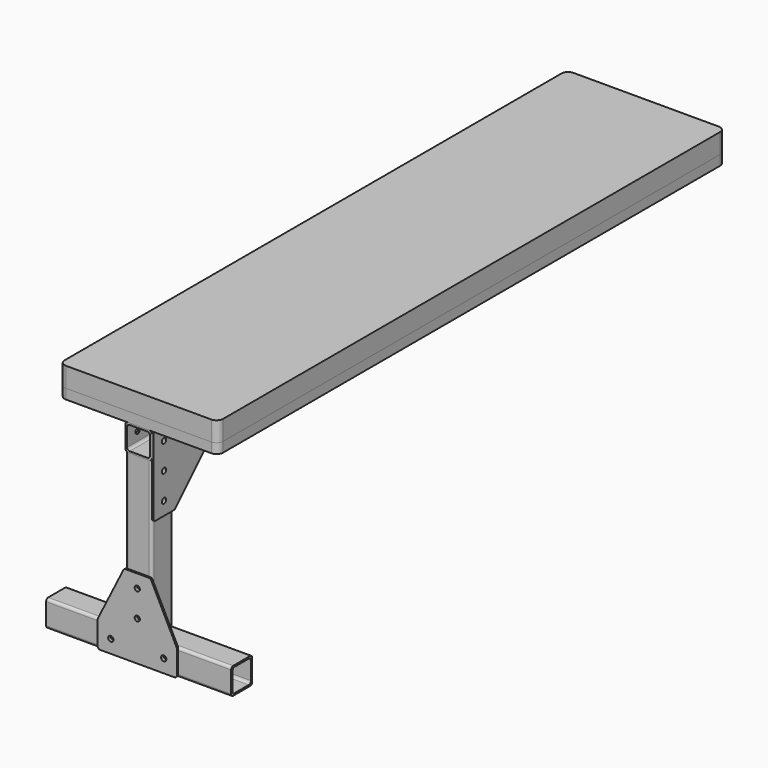
from build123d import *

# Parameters (mm, degrees)
F1_W      = 50.8
F1_H      = 50.8
F1_W_2    = 44.45
F1_H_2    = 44.45
F2_DEPTH  = 609.6
F3_W      = 50.8
F3_H      = 50.8
F3_W_2    = 44.45
F3_H_2    = 44.45
F4_DEPTH  = 298.45
F5_W      = 50.8
F5_H      = 50.8
F5_W_2    = 44.45
F5_H_2    = 44.45
F6_DEPTH  = 177.8
F8_DEPTH  = 3.175
F9_W      = 304.8
F9_H      = 1219.2
F10_DEPTH = 19.05
F11_DEPTH = 38.1
F13_DEPTH = 3.175
F15_D     = 10.0838
F15_2_D   = 10.0838
F15_3_D   = 10.0838
F17_D     = 10.0838
F17_2_D   = 10.0838
F17_3_D   = 10.0838
F19_D     = 10.0838
F20_D     = 11.509375
F21_R     = 5.08
F21_2_R   = 5.08
F21_3_R   = 5.08
F22_R     = 12.7
F22_2_R   = 12.7
F23_R     = 5.08
F23_2_R   = 5.08


with BuildPart() as f2:
    # F1 (on Front) → F2 (new body, symmetric)
    with BuildSketch(Plane.XZ):
        with Locations((0, -25.4)):
            Rectangle(F1_W, F1_H)
        with Locations((0, -25.4)):
            Rectangle(F1_W_2, F1_H_2, mode=Mode.SUBTRACT)
    extrude(amount=F2_DEPTH, both=True)

    # F17 (through all)
    with Locations(Plane.YZ.offset(28.575)):
        with Locations((-584.2, -127), (-584.2, -25.4), (-584.2, -76.2), (-482.6, -25.4), (482.6, -25.4), (584.2, -25.4)):
            Hole(F17_D / 2)

    # F19 (through all)
    with Locations(Plane.XY):
        with Locations((9.34e-08, -505.651473999), (9.34e-08, -257.1241557598), (9.34e-08, -19.5383150131), (9.34e-08, 157.0880413055), (9.34e-08, 430.6244254112)):
            Hole(F19_D / 2)

    # F21#3
    f21_3_edges = [f2.edges().sort_by_distance(p)[0] for p in [
        (25.4, 0, 0),
        (-25.4, 0, -50.8),
        (25.4, 0, -50.8),
        (22.225, 0, -47.625),
        (22.225, 0, -3.175),
        (-22.225, 0, -47.625),
        (-22.225, 0, -3.175),
        (-25.4, 0, 0),
    ]]
    fillet(f21_3_edges, radius=F21_3_R)


with BuildPart() as f4:
    # F3 (on face) → F4 (new body)
    with BuildSketch(Plane(origin=(0, 0, -50.8), x_dir=(1, 0, 0), z_dir=(0, 0, -1))):
        with Locations((0, 584.2)):
            Rectangle(F3_W, F3_H)
        with Locations((0, 584.2)):
            Rectangle(F3_W_2, F3_H_2, mode=Mode.SUBTRACT)
    extrude(amount=F4_DEPTH)

    # F15 (through all)
    with Locations(Plane.XZ.offset(612.775)):
        with Locations((-50.8, -374.65), (50.8, -374.65), (0, -323.85), (0, -273.05)):
            Hole(F15_D / 2)

    # F17#2 (through all)
    with Locations(Plane.YZ.offset(28.575)):
        with Locations((-584.2, -127), (-584.2, -25.4), (-584.2, -76.2), (-482.6, -25.4), (482.6, -25.4), (584.2, -25.4)):
            Hole(F17_2_D / 2)

    # F21#2
    f21_2_edges = [f4.edges().sort_by_distance(p)[0] for p in [
        (25.4, -558.8, -200.025),
        (22.225, -561.975, -200.025),
        (-25.4, -609.6, -200.025),
        (-22.225, -606.425, -200.025),
        (25.4, -609.6, -200.025),
        (22.225, -606.425, -200.025),
        (-22.225, -561.975, -200.025),
        (-25.4, -558.8, -200.025),
    ]]
    fillet(f21_2_edges, radius=F21_2_R)


with BuildPart() as f6:
    # F5 (on Right) → F6 (new body, symmetric)
    with BuildSketch(Plane.YZ):
        with Locations((-584.2, -374.65)):
            Rectangle(F5_W, F5_H)
        with Locations((-584.2, -374.65)):
            Rectangle(F5_W_2, F5_H_2, mode=Mode.SUBTRACT)
    extrude(amount=F6_DEPTH, both=True)

    # F15#2 (through all)
    with Locations(Plane.XZ.offset(612.775)):
        with Locations((-50.8, -374.65), (50.8, -374.65), (0, -323.85), (0, -273.05)):
            Hole(F15_2_D / 2)

    # F21
    f21_edges = [f6.edges().sort_by_distance(p)[0] for p in [
        (0, -609.6, -349.25),
        (0, -558.8, -349.25),
        (0, -558.8, -400.05),
        (0, -606.425, -396.875),
        (0, -609.6, -400.05),
        (0, -561.975, -352.425),
        (0, -561.975, -396.875),
        (0, -606.425, -352.425),
    ]]
    fillet(f21_edges, radius=F21_R)


with BuildPart() as f8:
    # F7 (on face) → F8 (new body)
    with BuildSketch(Plane.YZ.offset(25.4)):
        Polygon((-457.2, 0), (-609.6, 0), (-609.6, -152.4), (-558.8, -152.4), (-457.2, -50.8), align=None)
    extrude(amount=F8_DEPTH)

    # F17#3 (through all)
    with Locations(Plane.YZ.offset(28.575)):
        with Locations((-584.2, -127), (-584.2, -25.4), (-584.2, -76.2), (-482.6, -25.4), (482.6, -25.4), (584.2, -25.4)):
            Hole(F17_3_D / 2)

    # F23#2
    f23_2_edges = [f8.edges().sort_by_distance(p)[0] for p in [
        (26.9875, -609.6, -152.4),
        (26.9875, -558.8, -152.4),
        (26.9875, -609.6, 0),
        (26.9875, -457.2, 0),
        (26.9875, -457.2, -50.8),
    ]]
    fillet(f23_2_edges, radius=F23_2_R)


with BuildPart() as f10:
    # F9 (on Top) → F10 (new body)
    with BuildSketch(Plane.XY):
        Rectangle(F9_W, F9_H)
    extrude(amount=F10_DEPTH)


with BuildPart() as f11:
    # F11 (new): a face of the model
    f11_faces = [f10.part.faces().sort_by_distance(p)[0] for p in [
        (0, 0, 19.05),
    ]]
    extrude(f11_faces, amount=F11_DEPTH)

    # F22
    f22_edges = [f11.edges().sort_by_distance(p)[0] for p in [
        (152.4, -609.6, 38.1),
        (-152.4, -609.6, 38.1),
        (152.4, 609.6, 38.1),
        (-152.4, 609.6, 38.1),
    ]]
    fillet(f22_edges, radius=F22_R)


with BuildPart() as f13:
    # F12 (on face) → F13 (new body)
    with BuildSketch(Plane.XZ.offset(609.6)):
        Polygon((-76.2, -349.25), (-76.2, -400.05), (76.2, -400.05), (76.2, -349.25), (25.4, -247.65), (-25.4, -247.65), align=None)
    extrude(amount=F13_DEPTH)

    # F15#3 (through all)
    with Locations(Plane.XZ.offset(612.775)):
        with Locations((-50.8, -374.65), (50.8, -374.65), (0, -323.85), (0, -273.05)):
            Hole(F15_3_D / 2)

    # F23
    f23_edges = [f13.edges().sort_by_distance(p)[0] for p in [
        (76.2, -611.1875, -349.25),
        (25.4, -611.1875, -247.65),
        (-25.4, -611.1875, -247.65),
        (76.2, -611.1875, -400.05),
        (-76.2, -611.1875, -400.05),
        (-76.2, -611.1875, -349.25),
    ]]
    fillet(f23_edges, radius=F23_R)


with BuildPart() as f10_1:
    add(f10.part)

    # F20 (through all)
    with Locations(Plane(origin=(0, 0, 0), x_dir=(1, 0, 0), z_dir=(0, 0, -1))):
        with Locations((9.34e-08, 505.651473999), (9.34e-08, 257.1241557598), (9.34e-08, 19.5383150131), (9.34e-08, -157.0880413055), (9.34e-08, -430.6244254112)):
            Hole(F20_D / 2)

    # F22#2
    f22_2_edges = [f10_1.edges().sort_by_distance(p)[0] for p in [
        (152.4, -609.6, 9.525),
        (-152.4, -609.6, 9.525),
        (152.4, 609.6, 9.525),
        (-152.4, 609.6, 9.525),
    ]]
    fillet(f22_2_edges, radius=F22_2_R)


solid = Compound([f2.part, f4.part, f6.part, f8.part, f11.part, f13.part, f10_1.part])
